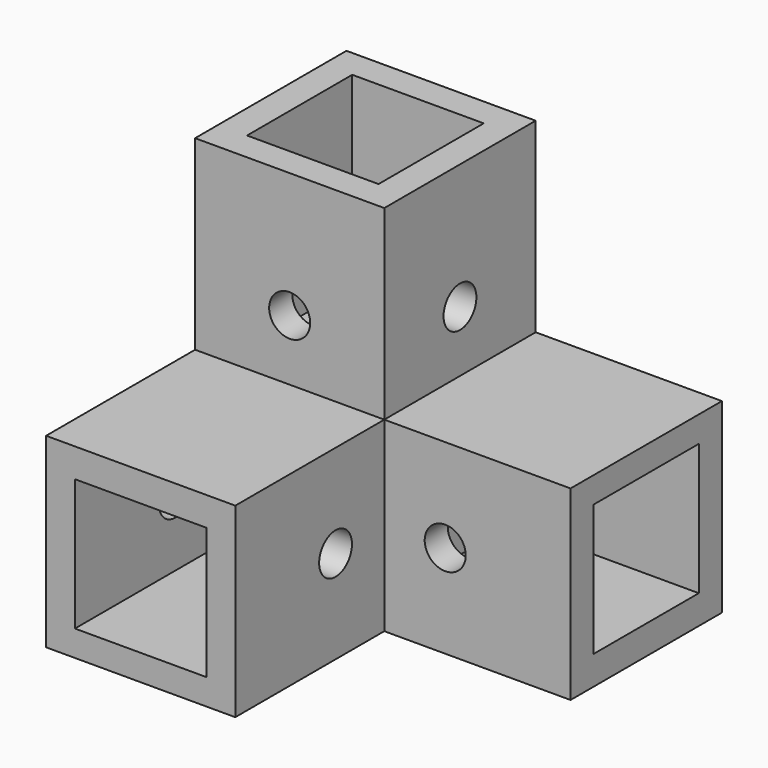
from build123d import *

# Parameters (mm, degrees)
F0_W      = 14.75
F0_H      = 14.75
F0_W_2    = 10.25
F0_H_2    = 10.25
F1_DEPTH  = 14.5200116
F2_W      = 14.75
F2_H      = 14.75
F2_W_2    = 10.25
F2_H_2    = 10.25
F3_DEPTH  = 14.5200116
F4_W      = 14.75
F4_H      = 14.5200116
F5_DEPTH  = 14.5200116
F6_W      = 14.75
F6_H      = 14.5200116
F6_W_2    = 10.25
F6_H_2    = 10.25
F7_DEPTH  = 14.5200116
F8_R      = 1.6
F9_DEPTH  = 25.4
F10_R     = 1.6
F11_DEPTH = 25.4
F12_R     = 1.6
F13_DEPTH = 25.4
F14_R     = 1.6
F15_DEPTH = 25.4


with BuildPart() as f1:
    # F0 (on Top) → F1 (new body)
    with BuildSketch(Plane.XY):
        with Locations((5.125, -5.125)):
            Rectangle(F0_W, F0_H)
        with Locations((5.125, -5.125)):
            Rectangle(F0_W_2, F0_H_2, mode=Mode.SUBTRACT)
    extrude(amount=F1_DEPTH)

    # F2 (on face) → F3 (join)
    with BuildSketch(Plane(origin=(0, 0, 0), x_dir=(1, 0, 0), z_dir=(0, 0, -1))):
        with Locations((5.125, 5.125)):
            Rectangle(F2_W, F2_H)
        with Locations((5.125, 5.125)):
            Rectangle(F2_W_2, F2_H_2, mode=Mode.SUBTRACT)
        with Locations((5.125, 5.125)):
            Rectangle(F2_W_2, F2_H_2)
    extrude(amount=F3_DEPTH)

    # F4 (on face) → F5 (join)
    with BuildSketch(Plane.XZ.offset(12.5)):
        with Locations((5.125, -7.2600058)):
            Rectangle(F4_W, F4_H)
        Polygon((0, -12.2700116), (0, -2.25), (10.25, -2.25), (10.25, -12.2700116), (10.25, -12.5), (0, -12.5), align=None, mode=Mode.SUBTRACT)
    extrude(amount=F5_DEPTH)

    # F6 (on face) → F7 (join)
    with BuildSketch(Plane.YZ.offset(12.5)):
        with Locations((-5.125, -7.2600058)):
            Rectangle(F6_W, F6_H)
        with Locations((-5.125, -7.1450116)):
            Rectangle(F6_W_2, F6_H_2, mode=Mode.SUBTRACT)
    extrude(amount=F7_DEPTH)

    # F8 (on face) → F9 (cut)
    with BuildSketch(Plane.XZ.offset(12.5)):
        with Locations((17.25, -7.2600058)):
            Circle(F8_R)
    extrude(amount=-F9_DEPTH, mode=Mode.SUBTRACT)

    # F10 (on face) → F11 (cut)
    with BuildSketch(Plane.YZ.offset(12.5)):
        with Locations((-17.25, -7.2600058)):
            Circle(F10_R)
    extrude(amount=-F11_DEPTH, mode=Mode.SUBTRACT)

    # F12 (on face) → F13 (cut)
    with BuildSketch(Plane(origin=(-2.25, 0, 0), x_dir=(0, -1, 0), z_dir=(-1, 0, 0))):
        with Locations((5.125, 4.75)):
            Circle(F12_R)
    extrude(amount=-F13_DEPTH, mode=Mode.SUBTRACT)

    # F14 (on face) → F15 (cut)
    with BuildSketch(Plane.XZ.offset(12.5)):
        with Locations((5.125, 4.75)):
            Circle(F14_R)
    extrude(amount=-F15_DEPTH, mode=Mode.SUBTRACT)


solid = f1.part
